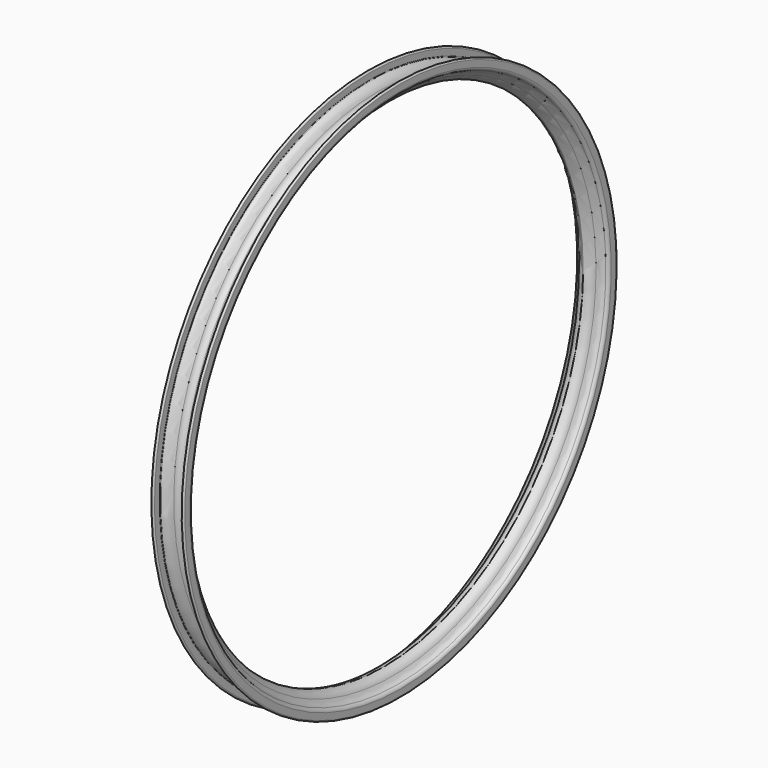
from build123d import *


with BuildPart() as f2:
    # F0 (on Front) → F2 (revolve)
    with BuildSketch(Plane.XZ):
        with BuildLine():
            Line((-15, 244.4794901688), (-15, 238.7294901688))
            ThreePointArc((-15, 238.7294901688), (-14.3151229928, 236.8215579036), (-12.5731963145, 235.784758265))
            ThreePointArc((-12.5731963145, 235.784758265), (-9.4782519339, 233.9505338261), (-7.5, 230.9456079873))
            ThreePointArc((-7.5, 230.9456079873), (-4.5677643628, 227.1617258059), (0, 225.7294901688))
            ThreePointArc((0, 225.7294901688), (4.5677643628, 227.1617258059), (7.5, 230.9456079873))
            ThreePointArc((7.5, 230.9456079873), (9.4782519339, 233.9505338261), (12.5731963145, 235.784758265))
            ThreePointArc((12.5731963145, 235.784758265), (14.3151229928, 236.8215579036), (15, 238.7294901688))
            Line((15, 238.7294901688), (15, 244.4794901688))
            ThreePointArc((15, 244.4794901688), (13.75, 245.7294901688), (12.5, 244.4794901688))
            Line((12.5, 244.4794901688), (12.5, 238.7294901688))
            ThreePointArc((12.5, 238.7294901688), (12.3604433839, 238.3829637382), (12.0196777319, 238.2298775319))
            ThreePointArc((12.0196777319, 238.2298775319), (7.8306179545, 235.8330986352), (5.15625, 231.815571169))
            ThreePointArc((5.15625, 231.815571169), (3.1403379994, 229.2141521693), (0, 228.2294901688))
            ThreePointArc((0, 228.2294901688), (-3.1403379994, 229.2141521693), (-5.15625, 231.815571169))
            ThreePointArc((-5.15625, 231.815571169), (-7.8306179545, 235.8330986352), (-12.0196777319, 238.2298775319))
            ThreePointArc((-12.0196777319, 238.2298775319), (-12.3604433839, 238.3829637382), (-12.5, 238.7294901688))
            Line((-12.5, 238.7294901688), (-12.5, 244.4794901688))
            ThreePointArc((-12.5, 244.4794901688), (-13.75, 245.7294901688), (-15, 244.4794901688))
        make_face()
    revolve(axis=Axis((0, 0, 0), (1, 0, 0)))


solid = f2.part
